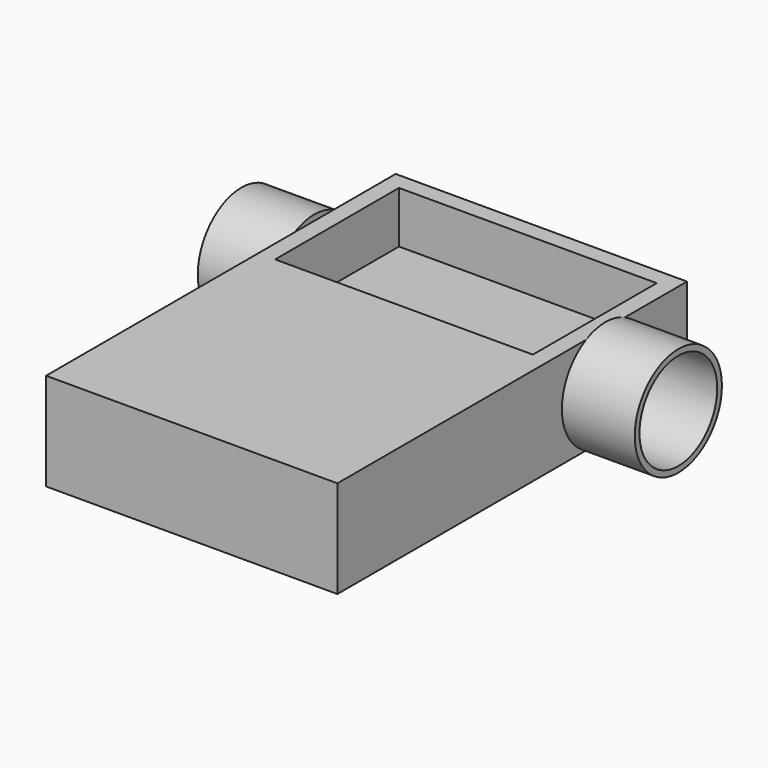
from build123d import *

# Parameters (mm, degrees)
F0_W      = 50.8
F0_H      = 76.2
F1_DEPTH  = 17
F3_W      = 44.944652
F3_H      = 27
F4_DEPTH  = 9
F5_R      = 9.5
F6_DEPTH  = 12.7
F7_R      = 8.475
F8_DEPTH  = 12.7
F9_R      = 9.5
F10_DEPTH = 12.7
F11_R     = 8.475
F12_DEPTH = 12.7


with BuildPart() as f1:
    # F0 (on Top) → F1 (new body)
    with BuildSketch(Plane.XY):
        Rectangle(F0_W, F0_H)
    extrude(amount=F1_DEPTH)

    # F3 (on face) → F4 (cut)
    with BuildSketch(Plane.XY.offset(17)):
        with Locations((0, 21.661439)):
            Rectangle(F3_W, F3_H)
    extrude(amount=-F4_DEPTH, mode=Mode.SUBTRACT)

    # F5 (on face) → F6 (join)
    with BuildSketch(Plane.YZ.offset(25.4)):
        with Locations((20.341752, 8.5)):
            Circle(F5_R)
    extrude(amount=F6_DEPTH)

    # F7 (on face) → F8 (cut)
    with BuildSketch(Plane.YZ.offset(38.1)):
        with Locations((20.341752, 8.5)):
            Circle(F7_R)
    extrude(amount=-F8_DEPTH, mode=Mode.SUBTRACT)

    # F9 (on face) → F10 (join)
    with BuildSketch(Plane(origin=(-25.4, 0, 0), x_dir=(0, -1, 0), z_dir=(-1, 0, 0))):
        with Locations((-20.342, 8.5)):
            Circle(F9_R)
    extrude(amount=F10_DEPTH)

    # F11 (on face) → F12 (cut)
    with BuildSketch(Plane(origin=(-38.1, 0, 0), x_dir=(0, -1, 0), z_dir=(-1, 0, 0))):
        with Locations((-20.342, 8.5)):
            Circle(F11_R)
    extrude(amount=-F12_DEPTH, mode=Mode.SUBTRACT)


solid = f1.part
